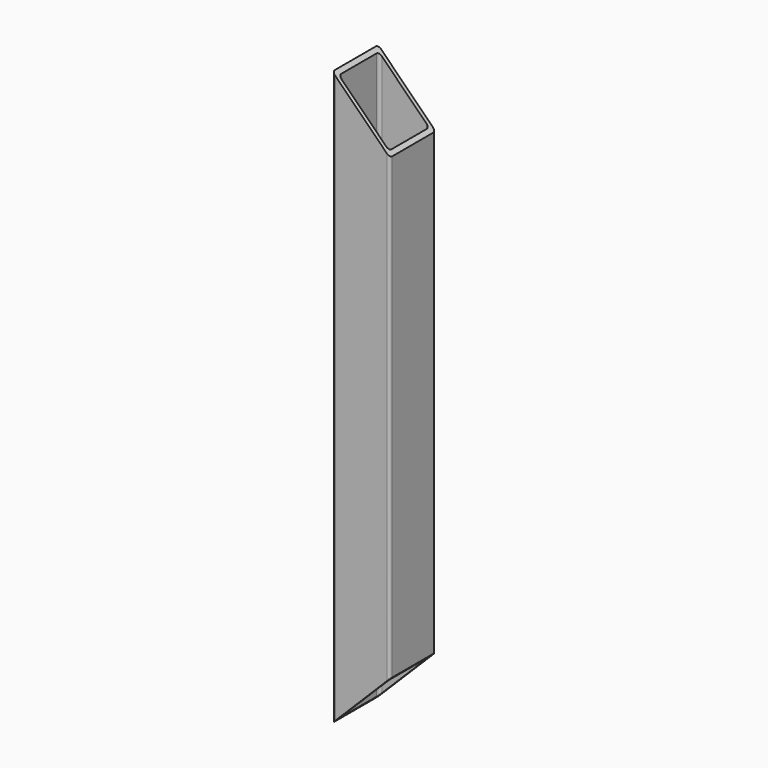
from build123d import *

# Parameters (mm, degrees)
F0_W     = 101.6
F0_H     = 101.6
F0_W_2   = 88.9
F0_H_2   = 88.9
F1_DEPTH = 508
F3_DEPTH = 101.601
F4_R     = 5.08


with BuildPart() as f1:
    # F0 (on Top) → F1 (new body, symmetric)
    with BuildSketch(Plane.XY):
        Rectangle(F0_W, F0_H)
        Rectangle(F0_W_2, F0_H_2, mode=Mode.SUBTRACT)
    extrude(amount=F1_DEPTH, both=True)

    # F2 (on face) → F3 (cut, through all)
    with BuildSketch(Plane.XZ.offset(50.8)):
        Polygon((50.8, 508), (-50.8, 508), (50.8, 406.4), align=None)
        Polygon((50.8, -406.4), (-50.8, -508), (50.8, -508), align=None)
    extrude(amount=-F3_DEPTH, mode=Mode.SUBTRACT)

    # F4
    f4_edges = [f1.edges().sort_by_distance(p)[0] for p in [
        (-50.8, -50.8, 0),
        (50.8, -50.8, 0),
        (-50.8, 50.8, 0),
        (50.8, 50.8, 0),
        (44.45, 44.45, 0),
        (-44.45, 44.45, 0),
        (-44.45, -44.45, 0),
        (44.45, -44.45, 0),
    ]]
    fillet(f4_edges, radius=F4_R)


solid = f1.part
